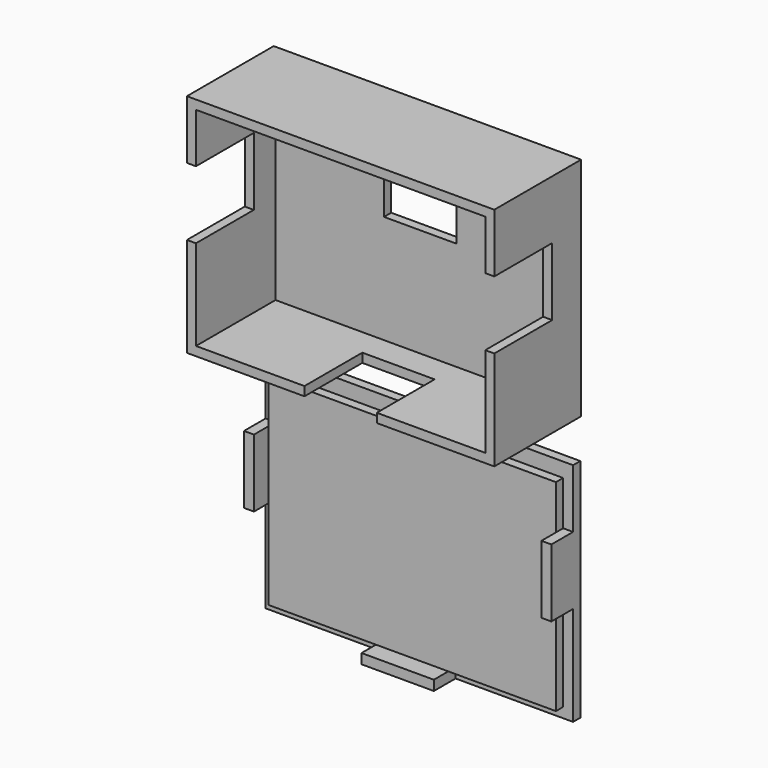
from build123d import *

# Parameters (mm, degrees)
F0_W     = 16
F0_H     = 8
F0_W_2   = 2
F0_H_2   = 15
F0_H_3   = 2
F1_DEPTH = 2
F2_DEPTH = 24
F3_START = 8
F3_DEPTH = 16
F0_W_3   = 2.2
F0_H_4   = 2.2
F4_DEPTH = 2
F5_DEPTH = 4
F6_DEPTH = 8


with BuildPart() as f1:
    # F0 (on Front) → F1 (new body)
    with BuildSketch(Plane.XZ):
        Polygon((-32, 26), (-32, 15), (-32, 0), (-32, -20), (-8, -20), (8, -20), (32, -20), (32, 0), (32, 15), (32, 26), align=None)
        with Locations((0, 8)):
            Rectangle(F0_W, F0_H, mode=Mode.SUBTRACT)
        with Locations((33, 7.5)):
            Rectangle(F0_W_2, F0_H_2)
        Polygon((34, -22), (34, 0), (32, 0), (32, -20), (8, -20), (8, -22), align=None)
        Polygon((34, 28), (-34, 28), (-34, 15), (-32, 15), (-32, 26), (32, 26), (32, 15), (34, 15), align=None)
        with Locations((-33, 7.5)):
            Rectangle(F0_W_2, F0_H_2)
        Polygon((-32, 0), (-34, 0), (-34, -22), (-8, -22), (-8, -20), (-32, -20), align=None)
        with Locations((0, -21)):
            Rectangle(F0_W, F0_H_3)
    extrude(amount=F1_DEPTH)

    # F0 (on Front) → F2 (join)
    with BuildSketch(Plane.XZ):
        with Locations((0, -21)):
            Rectangle(F0_W, F0_H_3)
        Polygon((-32, 0), (-34, 0), (-34, -22), (-8, -22), (-8, -20), (-32, -20), align=None)
        with Locations((-33, 7.5)):
            Rectangle(F0_W_2, F0_H_2)
        Polygon((34, -22), (34, 0), (32, 0), (32, -20), (8, -20), (8, -22), align=None)
        with Locations((33, 7.5)):
            Rectangle(F0_W_2, F0_H_2)
        Polygon((34, 28), (-34, 28), (-34, 15), (-32, 15), (-32, 26), (32, 26), (32, 15), (34, 15), align=None)
    extrude(amount=F2_DEPTH)

    # F0 (on Front) → F3 (cut)
    with BuildSketch(Plane.XZ.offset(F3_START)):
        with Locations((-33, 7.5)):
            Rectangle(F0_W_2, F0_H_2)
        with Locations((0, -21)):
            Rectangle(F0_W, F0_H_3)
        with Locations((33, 7.5)):
            Rectangle(F0_W_2, F0_H_2)
    extrude(amount=F3_DEPTH, mode=Mode.SUBTRACT)


with BuildPart() as f4:
    # F0 (on Front) → F4 (new body)
    with BuildSketch(Plane.XZ):
        Polygon((-31.9727845669, -33.9552039623), (-31.9727845669, -43.7552039623), (-31.9727845669, -58.7552039623), (-31.9727845669, -78.5552039623), (-8.1727845669, -78.5552039623), (7.8272154331, -78.5552039623), (31.6272154331, -78.5552039623), (31.6272154331, -58.7552039623), (31.6272154331, -43.7552039623), (31.6272154331, -33.9552039623), align=None)
        Polygon((33.8272154331, -30.7552039623), (-34.1727845669, -30.7552039623), (-34.1727845669, -43.7552039623), (-31.9727845669, -43.7552039623), (-31.9727845669, -33.9552039623), (31.6272154331, -33.9552039623), (31.6272154331, -43.7552039623), (33.8272154331, -43.7552039623), align=None)
        with Locations((-33.0727845669, -51.2552039623)):
            Rectangle(F0_W_3, F0_H_2)
        Polygon((-31.9727845669, -58.7552039623), (-34.1727845669, -58.7552039623), (-34.1727845669, -80.7552039623), (-8.1727845669, -80.7552039623), (-8.1727845669, -78.5552039623), (-31.9727845669, -78.5552039623), align=None)
        with Locations((-0.1727845669, -79.6552039623)):
            Rectangle(F0_W, F0_H_4)
        Polygon((33.8272154331, -80.7552039623), (33.8272154331, -58.7552039623), (31.6272154331, -58.7552039623), (31.6272154331, -78.5552039623), (7.8272154331, -78.5552039623), (7.8272154331, -80.7552039623), align=None)
        with Locations((32.7272154331, -51.2552039623)):
            Rectangle(F0_W_3, F0_H_2)
    extrude(amount=F4_DEPTH)

    # F0 (on Front) → F5 (join)
    with BuildSketch(Plane.XZ):
        Polygon((-31.9727845669, -33.9552039623), (-31.9727845669, -43.7552039623), (-31.9727845669, -58.7552039623), (-31.9727845669, -78.5552039623), (-8.1727845669, -78.5552039623), (7.8272154331, -78.5552039623), (31.6272154331, -78.5552039623), (31.6272154331, -58.7552039623), (31.6272154331, -43.7552039623), (31.6272154331, -33.9552039623), align=None)
    extrude(amount=F5_DEPTH)

    # F0 (on Front) → F6 (join)
    with BuildSketch(Plane.XZ):
        with Locations((-33.0727845669, -51.2552039623)):
            Rectangle(F0_W_3, F0_H_2)
        with Locations((-0.1727845669, -79.6552039623)):
            Rectangle(F0_W, F0_H_4)
        with Locations((32.7272154331, -51.2552039623)):
            Rectangle(F0_W_3, F0_H_2)
    extrude(amount=F6_DEPTH)


solid = Compound([f1.part, f4.part])
